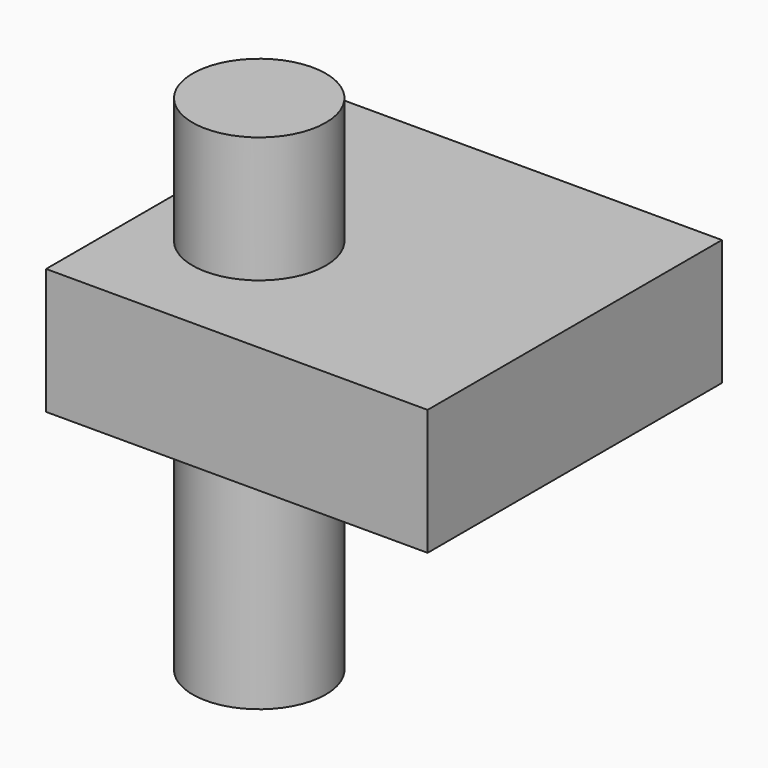
from build123d import *

# Parameters (mm, degrees)
F0_W          = 77.001809
F0_H          = 74.241732
F2_DEPTH      = 25.4
F1_R          = 13.438223
F3_DEPTH      = 50.8
F3_DEPTH_BACK = 50.8


with BuildPart() as f2:
    # F0 (on Top) → F2 (new body)
    with BuildSketch(Plane.XY):
        with Locations((-29.035435, -11.678418)):
            Rectangle(F0_W, F0_H)
    extrude(amount=F2_DEPTH)


with BuildPart() as f3:
    # F1 (on Top) → F3 (new body, two sides)
    with BuildSketch(Plane.XY) as f3_sk:
        with Locations((-47.256798, -20.382388)):
            Circle(F1_R)
    extrude(amount=F3_DEPTH)
    extrude(f3_sk.sketch, amount=-F3_DEPTH_BACK)


solid = Compound([f2.part, f3.part])
